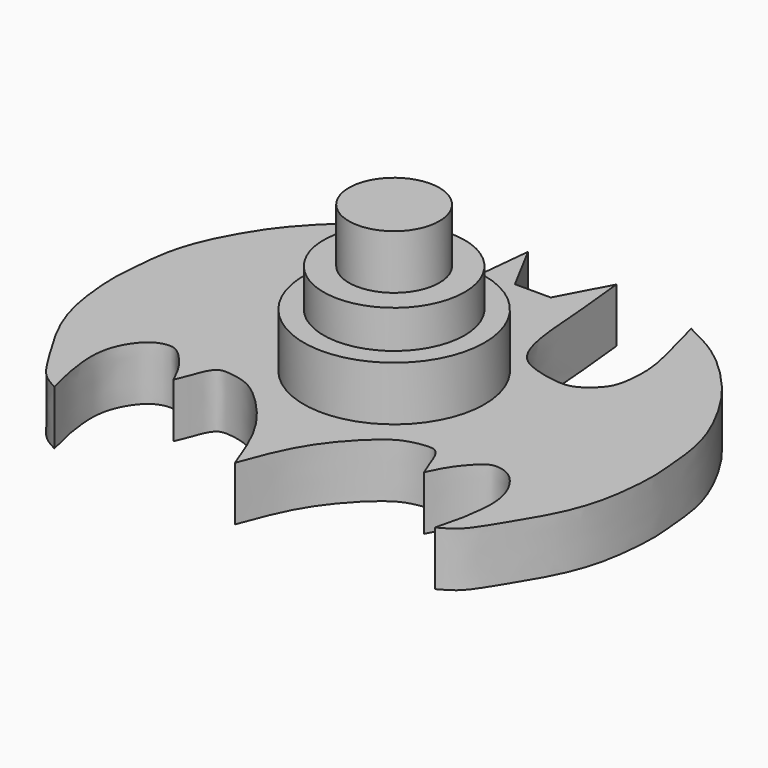
from build123d import *

# Parameters (mm, degrees)
F0_R     = 5
F0_R_2   = 3.9
F1_DEPTH = 3
F2_DEPTH = 5.1
F3_DEPTH = 3
F4_R     = 2.5
F5_DEPTH = 3


with BuildPart() as f1:
    # F0 (on Top) → F1 (new body)
    with BuildSketch(Plane.XY):
        with Locations((0, -2.1439613178)):
            Circle(F0_R)
        with Locations((0, -2.1439613178)):
            Circle(F0_R_2, mode=Mode.SUBTRACT)
    extrude(amount=F1_DEPTH)

    # F0 (on Top) → F2 (join)
    with BuildSketch(Plane.XY):
        with Locations((0, -2.1439613178)):
            Circle(F0_R_2)
    extrude(amount=F2_DEPTH)

    # F0 (on Top) → F3 (join)
    with BuildSketch(Plane.XY):
        with BuildLine():
            add(Edge.make_bspline(
                [(0, -13.1439613178), (-0.4294539751, -11.9775387571), (-1.2548602794, -9.7356860997), (-3.5882204359, -7.3421443207), (-4.6056022039, -6.8652228997), (-5.59644324, -6.6997209592), (-6.0842325755, -6.7992801193), (-6.421690631, -7.3785882809), (-6.6311064449, -8.0463387493), (-6.8279232365, -8.5005663065), (-6.9271689281, -8.7296124548)],
                knots=[0, 0, 0, 0, 0.2171058195, 0.4172752437, 0.53563, 0.6444835629, 0.719822669, 0.8078278946, 0.9030964109, 1, 1, 1, 1], degree=3))
            add(Edge.make_bspline(
                [(0, -13.1439613178), (0.4294539751, -11.9775387571), (1.2548602794, -9.7356860997), (3.5882204359, -7.3421443207), (4.6056022039, -6.8652228997), (5.59644324, -6.6997209592), (6.0842325755, -6.7992801193), (6.421690631, -7.3785882809), (6.6311064449, -8.0463387493), (6.8279232365, -8.5005663065), (6.9271689281, -8.7296124548)],
                knots=[0, 0, 0, 0, 0.2171058195, 0.4172752437, 0.53563, 0.6444835629, 0.719822669, 0.8078278946, 0.9030964109, 1, 1, 1, 1], degree=3))
            add(Edge.make_bspline(
                [(6.9271689281, -8.7296124548), (7.1134929089, -8.3372721452), (7.488074895, -7.5485190726), (8.4570919572, -6.4827882523), (8.9980930935, -6.2932991044), (9.9724452781, -6.500508657), (10.8727144612, -7.758835945), (11.1199759549, -9.1010536806), (10.9823923974, -10.2848723846), (10.8940956062, -10.9875703061), (10.6577894277, -11.9196458914), (10.5168074369, -12.4757289886)],
                knots=[0, 0, 0, 0, 0.1216263724, 0.2445152145, 0.3206449098, 0.4190590878, 0.5466636489, 0.6703863075, 0.7818957274, 0.8698773991, 1, 1, 1, 1], degree=3))
            add(Edge.make_bspline(
                [(10.5168074369, -12.4757289886), (10.8330415271, -12.3060597242), (11.5356636572, -11.9290814551), (12.4027841021, -10.4995830509), (13.8202863847, -8.2507010885), (14.6969099323, -5.9037420567), (14.9485923671, -2.9615572621), (14.8058853863, -1.7001553968), (14.6528648582, 0.4973066476), (13.9146408287, 2.5349021338), (12.9079496989, 4.3074721389), (12.007450278, 5.5740503409), (9.9193860193, 7.7805719205), (8.3232374896, 8.5668020048), (7.5443135574, 8.9504839852)],
                knots=[0, 0, 0, 0, 0.0601980873, 0.1337506285, 0.227468375, 0.3209737133, 0.4178805746, 0.483672317, 0.5673687583, 0.6536556499, 0.7343601906, 0.8066506333, 0.9056450912, 1, 1, 1, 1], degree=3))
            add(Edge.make_bspline(
                [(7.5443135574, 8.9504839852), (7.6389206925, 8.5695326115), (7.8498950971, 7.7200090611), (8.3840108509, 5.8505067231), (8.553692706, 4.5085870534), (8.4155164417, 2.9013441134), (7.9076420532, 2.173278469), (6.9587534427, 1.4073756699), (5.870671358, 1.4751366742), (4.8140044742, 1.7071195914), (3.6439890322, 2.1967111639), (2.9474881014, 3.8856367555), (2.7831740694, 7.0241541467), (2.5569931426, 9.1130622026), (2.4434023071, 10.1621374488)],
                knots=[0, 0, 0, 0, 0.0752703658, 0.1678533083, 0.247860274, 0.3303695231, 0.3931204941, 0.4642847146, 0.532640025, 0.6024355443, 0.6744187279, 0.7611198291, 0.8800314483, 1, 1, 1, 1], degree=3))
            add(Edge.make_bspline(
                [(2.4434023071, 10.1621374488), (1.959738244, 9.254644004), (1.4760741809, 8.3471505592), (0.9924101178, 7.4396571144)],
                knots=[0, 0, 0, 0, 3.0850085096, 3.0850085096, 3.0850085096, 3.0850085096], degree=3))
            add(Edge.make_bspline(
                [(0.9924101178, 7.4396571144), (0.6616067452, 7.4396571144), (0.3308033726, 7.4396571144), (0, 7.4396571144)],
                knots=[0, 0, 0, 0, 0.9924101178, 0.9924101178, 0.9924101178, 0.9924101178], degree=3))
            add(Edge.make_bspline(
                [(-0.9924101178, 7.4396571144), (-0.6616067452, 7.4396571144), (-0.3308033726, 7.4396571144), (0, 7.4396571144)],
                knots=[0, 0, 0, 0, 0.9924101178, 0.9924101178, 0.9924101178, 0.9924101178], degree=3))
            add(Edge.make_bspline(
                [(-2.4434023071, 10.1621374488), (-1.959738244, 9.254644004), (-1.4760741809, 8.3471505592), (-0.9924101178, 7.4396571144)],
                knots=[0, 0, 0, 0, 3.0850085096, 3.0850085096, 3.0850085096, 3.0850085096], degree=3))
            add(Edge.make_bspline(
                [(-7.5443135574, 8.9504839852), (-7.6389206925, 8.5695326115), (-7.8498950971, 7.7200090611), (-8.3840108509, 5.8505067231), (-8.553692706, 4.5085870534), (-8.4155164417, 2.9013441134), (-7.9076420532, 2.173278469), (-6.9587534427, 1.4073756699), (-5.870671358, 1.4751366742), (-4.8140044742, 1.7071195914), (-3.6439890322, 2.1967111639), (-2.9474881014, 3.8856367555), (-2.7831740694, 7.0241541467), (-2.5569931426, 9.1130622026), (-2.4434023071, 10.1621374488)],
                knots=[0, 0, 0, 0, 0.0752703658, 0.1678533083, 0.247860274, 0.3303695231, 0.3931204941, 0.4642847146, 0.532640025, 0.6024355443, 0.6744187279, 0.7611198291, 0.8800314483, 1, 1, 1, 1], degree=3))
            add(Edge.make_bspline(
                [(-10.5168074369, -12.4757289886), (-10.8330415271, -12.3060597242), (-11.5356636572, -11.9290814551), (-12.4027841021, -10.4995830509), (-13.8202863847, -8.2507010885), (-14.6969099323, -5.9037420567), (-14.9485923671, -2.9615572621), (-14.8058853863, -1.7001553968), (-14.6528648582, 0.4973066476), (-13.9146408287, 2.5349021338), (-12.9079496989, 4.3074721389), (-12.007450278, 5.5740503409), (-9.9193860193, 7.7805719205), (-8.3232374896, 8.5668020048), (-7.5443135574, 8.9504839852)],
                knots=[0, 0, 0, 0, 0.0601980873, 0.1337506285, 0.227468375, 0.3209737133, 0.4178805746, 0.483672317, 0.5673687583, 0.6536556499, 0.7343601906, 0.8066506333, 0.9056450912, 1, 1, 1, 1], degree=3))
            add(Edge.make_bspline(
                [(-6.9271689281, -8.7296124548), (-7.1134929089, -8.3372721452), (-7.488074895, -7.5485190726), (-8.4570919572, -6.4827882523), (-8.9980930935, -6.2932991044), (-9.9724452781, -6.500508657), (-10.8727144612, -7.758835945), (-11.1199759549, -9.1010536806), (-10.9823923974, -10.2848723846), (-10.8940956062, -10.9875703061), (-10.6577894277, -11.9196458914), (-10.5168074369, -12.4757289886)],
                knots=[0, 0, 0, 0, 0.1216263724, 0.2445152145, 0.3206449098, 0.4190590878, 0.5466636489, 0.6703863075, 0.7818957274, 0.8698773991, 1, 1, 1, 1], degree=3))
        make_face()
        with Locations((0, -2.1439613178)):
            Circle(F0_R, mode=Mode.SUBTRACT)
        with Locations((0, -2.1439613178)):
            Circle(F0_R)
        with Locations((0, -2.1439613178)):
            Circle(F0_R_2, mode=Mode.SUBTRACT)
        with Locations((0, -2.1439613178)):
            Circle(F0_R_2)
    extrude(amount=-F3_DEPTH)

    # F4 (on face) → F5 (join)
    with BuildSketch(Plane.XY.offset(5.1)):
        with Locations((0, -2.1439613178)):
            Circle(F4_R)
    extrude(amount=F5_DEPTH)


solid = f1.part
